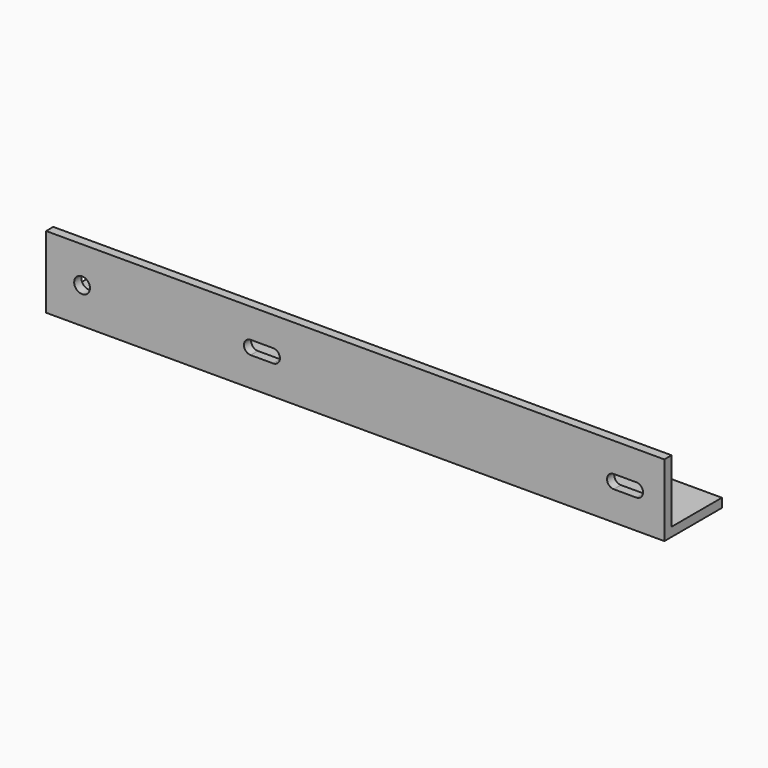
from build123d import *

# Parameters (mm, degrees)
F1_DEPTH = 436.5625
F2_R     = 5.55625
F3_DEPTH = 50.801
F4_R     = 5.55625
F5_DEPTH = 50.801


with BuildPart() as f1:
    # F0 (on Right) → F1 (new body)
    with BuildSketch(Plane.YZ):
        Polygon((0, 50.8), (0, 0), (50.8, 0), (50.8, 6.35), (6.35, 6.35), (6.35, 50.8), align=None)
    extrude(amount=F1_DEPTH)

    # F2 (on face) → F3 (cut, through all)
    with BuildSketch(Plane.XZ):
        with Locations((25.4, 25.4)):
            Circle(F2_R)
        with BuildLine():
            ThreePointArc((144.4625, 30.1625), (139.7, 25.4), (144.4625, 20.6375))
            Line((144.4625, 20.6375), (160.3375, 20.6375))
            ThreePointArc((160.3375, 20.6375), (165.1, 25.4), (160.3375, 30.1625))
            Line((160.3375, 30.1625), (144.4625, 30.1625))
        make_face()
        with BuildLine():
            ThreePointArc((400.84375, 30.1625), (396.08125, 25.4), (400.84375, 20.6375))
            Line((400.84375, 20.6375), (416.71875, 20.6375))
            ThreePointArc((416.71875, 20.6375), (421.48125, 25.4), (416.71875, 30.1625))
            Line((416.71875, 30.1625), (400.84375, 30.1625))
        make_face()
    extrude(amount=-F3_DEPTH, mode=Mode.SUBTRACT)

    # F4 (on face) → F5 (cut, through all)
    with BuildSketch(Plane(origin=(0, 0, 0), x_dir=(1, 0, 0), z_dir=(0, 0, -1))):
        with Locations((227.80625, -25.4)):
            Circle(F4_R)
        with Locations((177.00625, -25.4)):
            Circle(F4_R)
    extrude(amount=-F5_DEPTH, mode=Mode.SUBTRACT)


solid = f1.part
